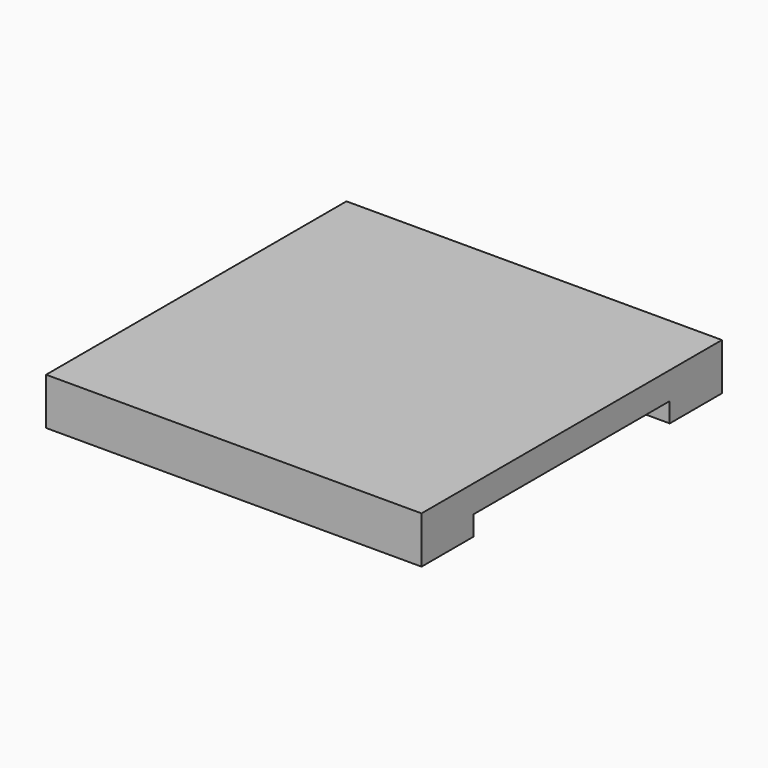
from build123d import *

# Parameters (mm, degrees)
F0_W     = 50.8
F0_H     = 50.8
F1_DEPTH = 3.175
F2_W     = 50.8
F2_H     = 33.147
F3_DEPTH = 2.667


with BuildPart() as f1:
    # F0 (on Top) → F1 (new body, symmetric)
    with BuildSketch(Plane.XY):
        with Locations((-0.609645, 0)):
            Rectangle(F0_W, F0_H)
    extrude(amount=F1_DEPTH, both=True)

    # F2 (on face) → F3 (cut)
    with BuildSketch(Plane(origin=(0, 0, -3.175), x_dir=(1, 0, 0), z_dir=(0, 0, -1))):
        with Locations((-0.609645, 0)):
            Rectangle(F2_W, F2_H)
    extrude(amount=-F3_DEPTH, mode=Mode.SUBTRACT)


solid = f1.part
